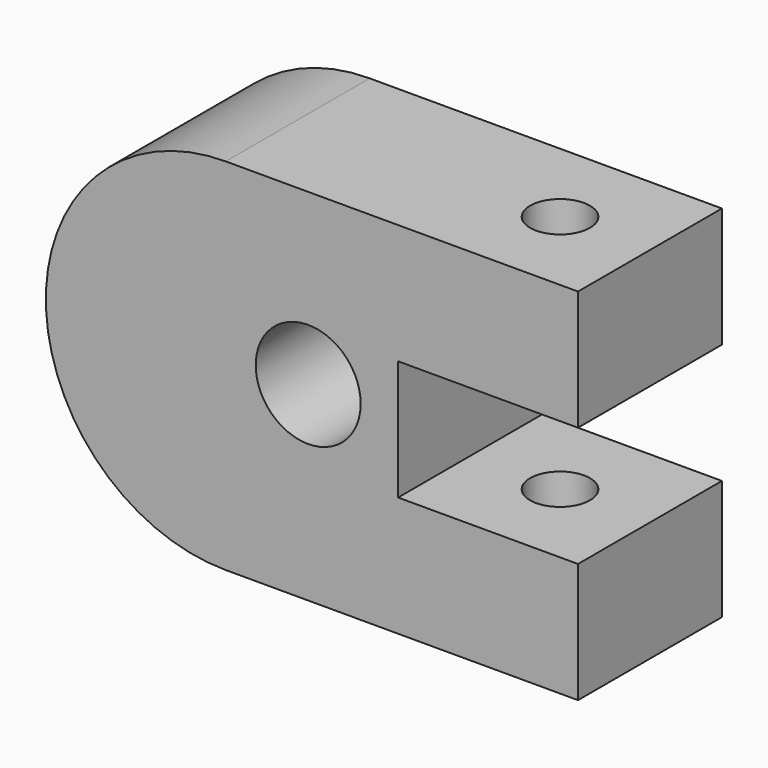
from build123d import *

# Parameters (mm, degrees)
F1_DEPTH = 76.2
F2_R     = 22.225
F3_DEPTH = 254
F4_R     = 12.7
F5_DEPTH = 508


with BuildPart() as f1:
    # F0 (on Front) → F1 (new body)
    with BuildSketch(Plane.XZ):
        with BuildLine():
            ThreePointArc((0, 152.4), (-76.2, 76.2), (0, 0))
            Line((0, 0), (149.225, 0))
            Line((149.225, 0), (149.225, 50.8))
            Line((149.225, 50.8), (73.025, 50.8))
            Line((73.025, 50.8), (73.025, 101.6))
            Line((73.025, 101.6), (149.225, 101.6))
            Line((149.225, 101.6), (149.225, 152.4))
            Line((149.225, 152.4), (0, 152.4))
        make_face()
    extrude(amount=F1_DEPTH)

    # F2 (on face) → F3 (cut)
    with BuildSketch(Plane.XZ.offset(76.2)):
        with Locations((34.925, 80.580235)):
            Circle(F2_R)
    extrude(amount=-F3_DEPTH, mode=Mode.SUBTRACT)

    # F4 (on face) → F5 (cut)
    with BuildSketch(Plane.XY.offset(152.4)):
        with Locations((111.125, -38.1)):
            Circle(F4_R)
    extrude(amount=-F5_DEPTH, mode=Mode.SUBTRACT)


solid = f1.part
